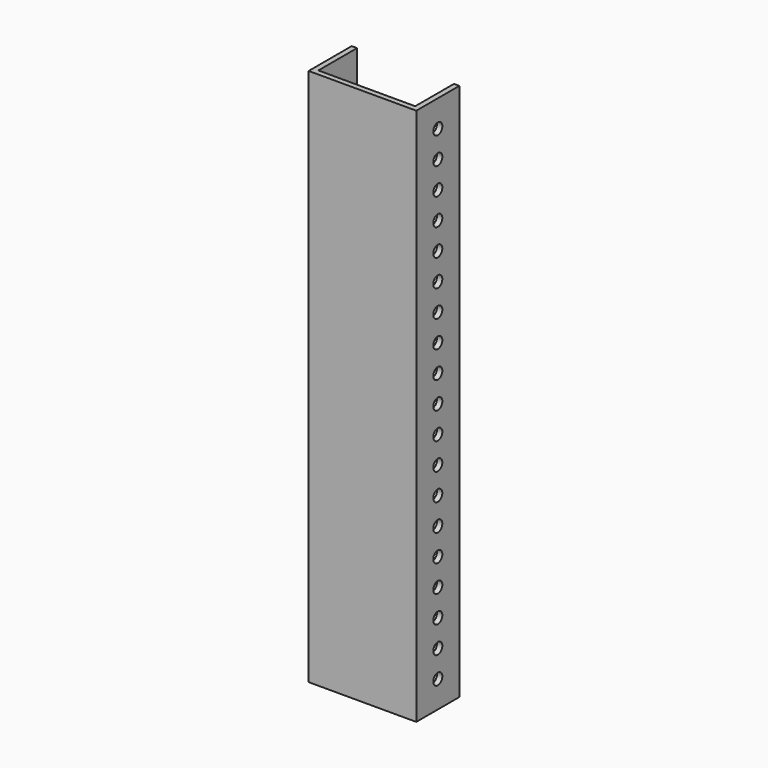
from build123d import *

# Parameters (mm, degrees)
F0_W     = 50.8
F0_H     = 254
F1_DEPTH = 12.7
F2_W     = 45.72
F2_H     = 22.86
F3_DEPTH = 254.001
F4_R     = 2.667
F5_DEPTH = 2.54


with BuildPart() as f1:
    # F0 (on Front) → F1 (new body, symmetric)
    with BuildSketch(Plane.XZ):
        Rectangle(F0_W, F0_H)
    extrude(amount=F1_DEPTH, both=True)

    # F2 (on face) → F3 (cut, through all)
    with BuildSketch(Plane.XY.offset(127)):
        with Locations((0, 1.27)):
            Rectangle(F2_W, F2_H)
    extrude(amount=-F3_DEPTH, mode=Mode.SUBTRACT)

    # F4 (on face) → F5 (cut)
    with BuildSketch(Plane.YZ.offset(25.4)):
        with Locations((0, 101.6)):
            Circle(F4_R)
        with Locations((0, 38.1)):
            Circle(F4_R)
        with Locations((0, 50.8)):
            Circle(F4_R)
        with Locations((0, 63.5)):
            Circle(F4_R)
        with Locations((0, 76.2)):
            Circle(F4_R)
        with Locations((0, 114.3)):
            Circle(F4_R)
        with Locations((0, -63.5)):
            Circle(F4_R)
        with Locations((0, -88.9)):
            Circle(F4_R)
        with Locations((0, -76.2)):
            Circle(F4_R)
        with Locations((0, -114.3)):
            Circle(F4_R)
        with Locations((0, -101.6)):
            Circle(F4_R)
        with Locations((0, 88.9)):
            Circle(F4_R)
        with Locations((0, -50.8)):
            Circle(F4_R)
        with Locations((0, 25.4)):
            Circle(F4_R)
        with Locations((0, 12.7)):
            Circle(F4_R)
        with Locations((0, -12.7)):
            Circle(F4_R)
        with Locations((0, -25.4)):
            Circle(F4_R)
        with Locations((0, -38.1)):
            Circle(F4_R)
        Circle(F4_R)
    extrude(amount=-F5_DEPTH, mode=Mode.SUBTRACT)


solid = f1.part
